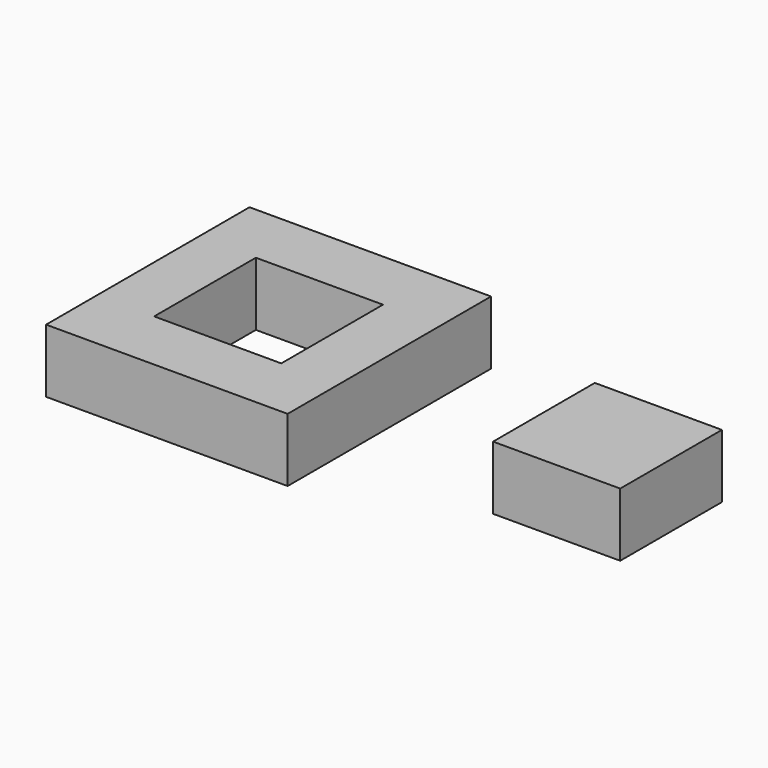
from build123d import *

# Parameters (mm, degrees)
F0_W     = 19
F0_H     = 20
F0_W_2   = 10
F0_H_2   = 10
F1_DEPTH = 5


with BuildPart() as f1:
    # F0 (on Top) → F1 (new body)
    with BuildSketch(Plane.XY):
        with Locations((-17.798164, 0)):
            Rectangle(F0_W, F0_H)
        with Locations((-17.798164, 0)):
            Rectangle(F0_W_2, F0_H_2, mode=Mode.SUBTRACT)
        with Locations((8.861159, 0)):
            Rectangle(F0_W_2, F0_H_2)
    extrude(amount=F1_DEPTH)


solid = f1.part
